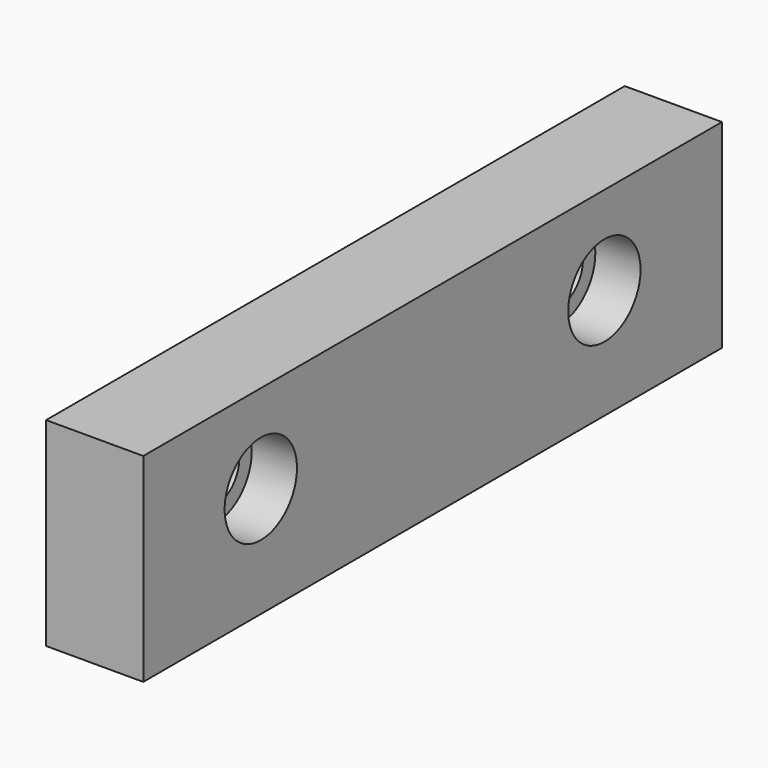
from build123d import *

# Parameters (mm, degrees)
F0_W     = 27.305
F0_H     = 55.88
F1_DEPTH = 101.6
F2_R     = 8.3312
F3_DEPTH = 38.1
F4_R     = 12.7
F4_R_2   = 8.3312
F5_DEPTH = 12.7


with BuildPart() as f1:
    # F0 (on Front) → F1 (new body, symmetric)
    with BuildSketch(Plane.XZ):
        with Locations((13.6525, 27.94)):
            Rectangle(F0_W, F0_H)
    extrude(amount=F1_DEPTH, both=True)

    # F2 (on face) → F3 (cut)
    with BuildSketch(Plane.YZ.offset(27.305)):
        with Locations((-60.325, 30.988)):
            Circle(F2_R)
        with Locations((60.325, 30.988)):
            Circle(F2_R)
    extrude(amount=-F3_DEPTH, mode=Mode.SUBTRACT)

    # F4 (on face) → F5 (cut)
    with BuildSketch(Plane.YZ.offset(27.305)):
        with Locations((-60.325, 30.988)):
            Circle(F4_R)
        with Locations((-60.325, 30.988)):
            Circle(F4_R_2, mode=Mode.SUBTRACT)
        with Locations((60.325, 30.988)):
            Circle(F4_R)
        with Locations((60.325, 30.988)):
            Circle(F4_R_2, mode=Mode.SUBTRACT)
    extrude(amount=-F5_DEPTH, mode=Mode.SUBTRACT)


solid = f1.part
